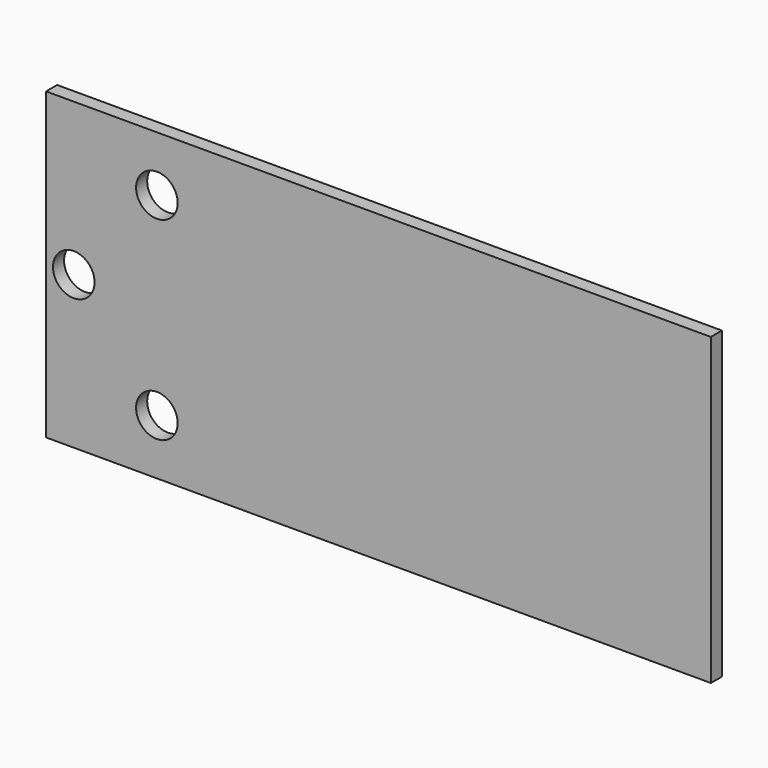
from build123d import *

# Parameters (mm, degrees)
F0_W     = 304.8
F0_H     = 139.7
F1_DEPTH = 6.35
F3_D     = 19.05


with BuildPart() as f1:
    # F0 (on Front) → F1 (new body)
    with BuildSketch(Plane.XZ):
        Rectangle(F0_W, F0_H)
    extrude(amount=F1_DEPTH)

    # F3 (through all)
    with Locations(Plane(origin=(0, 0, 0), x_dir=(1, 0, 0), z_dir=(0, 1, 0))):
        with Locations((-101.6, 44.45), (-139.7, 0), (-101.6, -44.45)):
            Hole(F3_D / 2)


solid = f1.part
